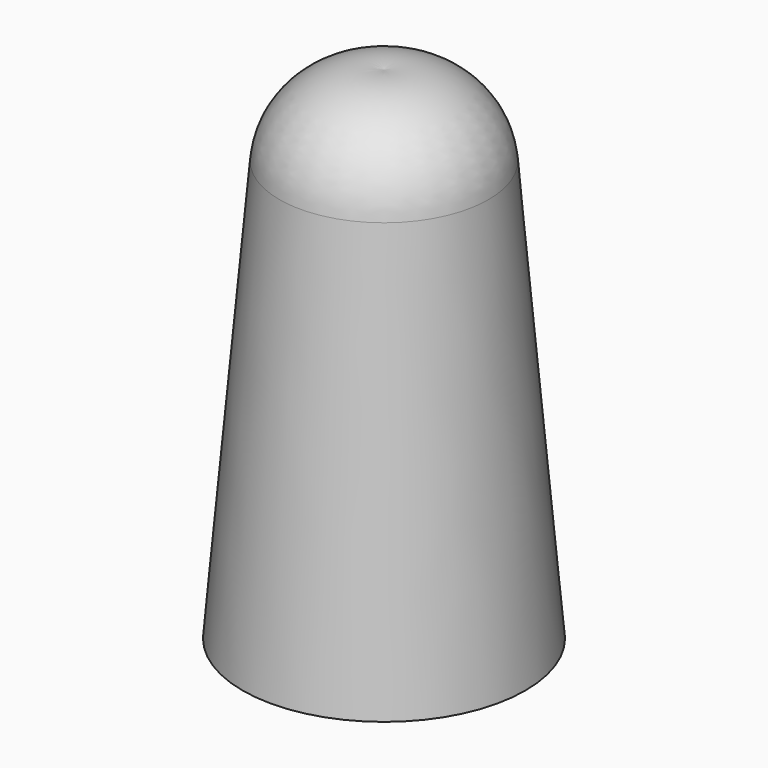
from build123d import *


with BuildPart() as f1:
    # F0 (on Right) → F1 (revolve)
    with BuildSketch(Plane.YZ):
        with BuildLine():
            ThreePointArc((4.439973, 17.831192), (2.969913, 20.513064), (0, 21.243223))
            Line((0, 21.243223), (0, 0))
            Line((0, 0), (6, 0))
            Line((6, 0), (4.439973, 17.831192))
        make_face()
    revolve(axis=Axis((0, 0, 10.621611), (0, 0, -1)))


solid = f1.part
